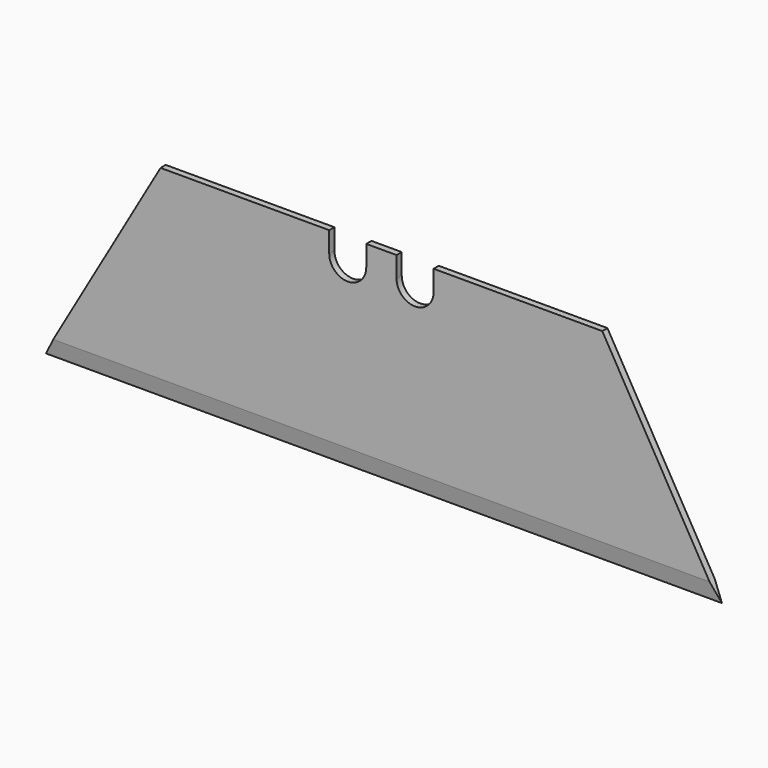
from build123d import *

# Parameters (mm, degrees)
F1_DEPTH = 0.6096
F2_W     = 3.4798
F2_H     = 1.9431
F3_DEPTH = 25.4
F5_SIZE2 = 1.5875
F5_SIZE  = 0.3042678278


with BuildPart() as f1:
    # F0 (on Front) → F1 (new body)
    with BuildSketch(Plane.XZ):
        Polygon((0, 19.05), (0, 0), (31.75, 0), (20.7514773719, 19.05), align=None)
    extrude(amount=F1_DEPTH)

    # F2 (on Front) → F3 (cut)
    with BuildSketch(Plane.XZ):
        with BuildLine():
            ThreePointArc((1.4224, 17.1069), (3.1623, 15.367), (4.9022, 17.1069))
            Line((4.9022, 17.1069), (1.4224, 17.1069))
        make_face()
        with Locations((3.1623, 18.07845)):
            Rectangle(F2_W, F2_H)
    extrude(amount=F3_DEPTH, mode=Mode.SUBTRACT)

    # F4: F1 across plane


with BuildPart() as f1_1:
    add(f1.part)
    add(f1.part.mirror(Plane.YZ))

    # F5
    f5_edges = [f1_1.edges().sort_by_distance(p)[0] for p in [
        (0, 0, 0),
        (0, -0.6096, 0),
    ]]
    f5_side = f1_1.faces().sort_by_distance((0, -0.3048, 0))[0]
    chamfer(f5_edges, length=F5_SIZE, length2=F5_SIZE2, reference=f5_side)


solid = f1_1.part
